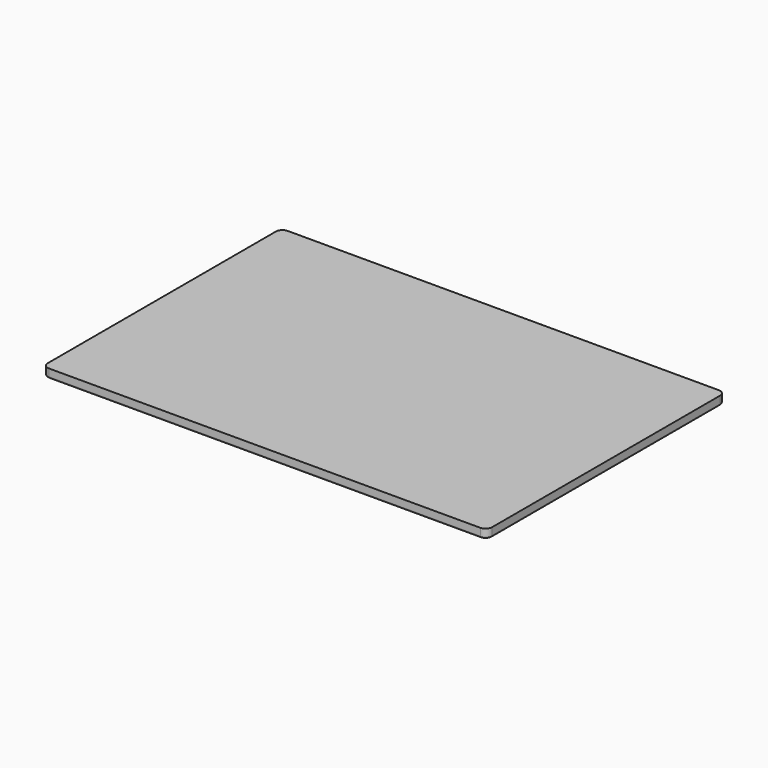
from build123d import *

# Parameters (mm, degrees)
F0_W     = 608
F0_H     = 408
F1_DEPTH = 12
F2_R     = 9
F3_R     = 2


with BuildPart() as f1:
    # F0 (on Top) → F1 (new body)
    with BuildSketch(Plane.XY):
        Rectangle(F0_W, F0_H)
    extrude(amount=F1_DEPTH)

    # F2
    f2_edges = [f1.edges().sort_by_distance(p)[0] for p in [
        (-304, 204, 6),
        (-304, -204, 6),
        (304, -204, 6),
        (304, 204, 6),
    ]]
    fillet(f2_edges, radius=F2_R)

    # F3
    f3_edges = [f1.edges().sort_by_distance(p)[0] for p in [
        (0, -204, 0),
    ]]
    fillet(f3_edges, radius=F3_R)


solid = f1.part
